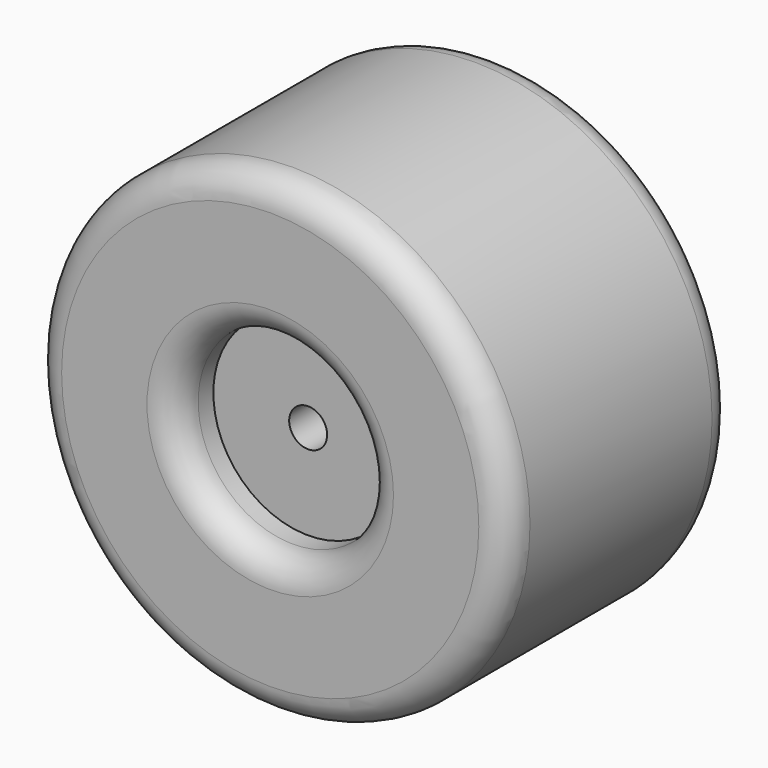
from build123d import *

# Parameters (mm, degrees)
F0_R          = 25
F0_R_2        = 10
F1_DEPTH      = 15
F1_DEPTH_BACK = 15
F0_R_3        = 2
F2_DEPTH      = 10
F2_DEPTH_BACK = 10
F3_R          = 3


with BuildPart() as f1:
    # F0 (on Front) → F1 (new body, two sides)
    with BuildSketch(Plane.XZ) as f1_sk:
        Circle(F0_R)
        Circle(F0_R_2, mode=Mode.SUBTRACT)
    extrude(amount=F1_DEPTH)
    extrude(f1_sk.sketch, amount=-F1_DEPTH_BACK)

    # F0 (on Front) → F2 (join, two sides)
    with BuildSketch(Plane.XZ) as f2_sk:
        Circle(F0_R_2)
        Circle(F0_R_3, mode=Mode.SUBTRACT)
    extrude(amount=F2_DEPTH)
    extrude(f2_sk.sketch, amount=-F2_DEPTH_BACK)

    # F3
    f3_edges = [f1.edges().sort_by_distance(p)[0] for p in [
        (-25, 15, 0),
        (-25, -15, 0),
        (-10, -15, 0),
        (-10, 15, 0),
    ]]
    fillet(f3_edges, radius=F3_R)


solid = f1.part
